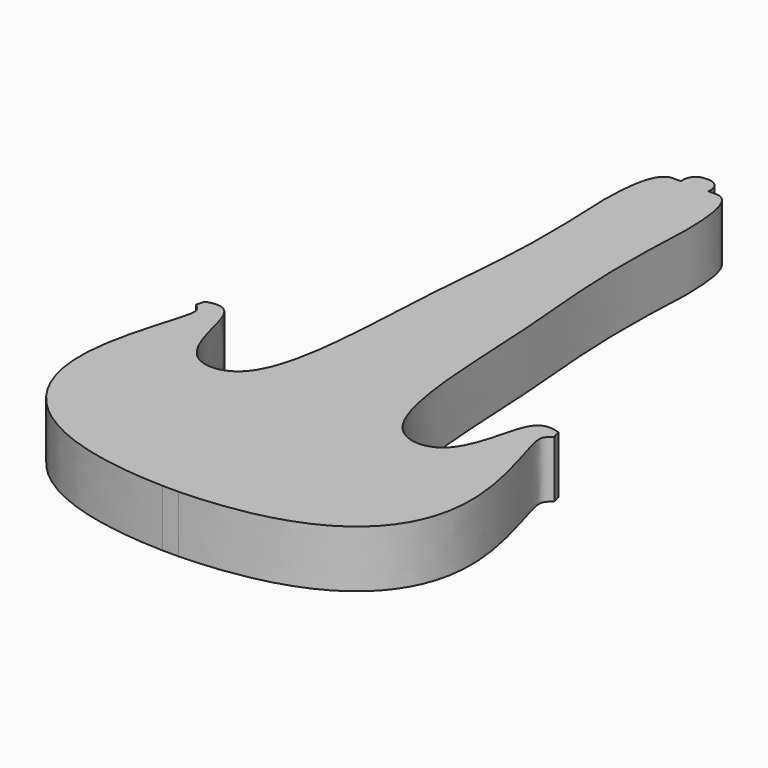
from build123d import *

# Parameters (mm, degrees)
F1_DEPTH = 35


with BuildPart() as f1:
    # F0 (on Top) → F1 (new body)
    with BuildSketch(Plane.XY):
        with BuildLine():
            ThreePointArc((7.5, 284.7219171226), (5.3033008589, 290.0252179815), (0, 292.2219171226))
            Line((0, 292.2219171226), (-1, 292.2219171226))
            Line((-1, 292.2219171226), (-1, -119.7780828774))
            Line((-1, -119.7780828774), (4, -119.7780828774))
            add(Edge.make_bspline(
                [(109, 37.3938740408), (105.6307440999, 34.3802133174), (101.4956652983, 29.6953939154), (138.6392780904, -56.2531371267), (89.0329927206, -117.4921383262), (4, -119.7780828774)],
                knots=[0, 0, 0, 0, 0.1283809688, 0.4939795161, 1, 1, 1, 1], degree=3))
            Line((109, 37.3938740408), (107.7, 42.2219171226))
            add(Edge.make_bspline(
                [(107.7, 42.2219171226), (94.0741872784, 47.2437572685), (88.096845975, 25.2587362562), (78.9578668379, -11.3232592516), (32.1367799481, -9.1189201412), (30.266071103, 105.0777554642), (23.2064005421, 163.6521584407), (22.6122391044, 218.3984420105), (25.733064441, 250.9676623076), (21.075761049, 282.5527358512), (12.5, 282.7219171226)],
                knots=[0, 0, 0, 0, 0.0933023943, 0.2057022012, 0.303203191, 0.494207764, 0.6484723748, 0.7822167594, 0.8974829579, 1, 1, 1, 1], degree=3))
            Line((12.5, 282.7219171226), (7.5, 282.7219171226))
            Line((7.5, 282.7219171226), (7.5, 284.7219171226))
        make_face()
    extrude(amount=F1_DEPTH)

    # F2: F1 across face


with BuildPart() as f1_1:
    add(f1.part)
    add(f1.part.mirror(Plane(origin=(-1, 86.2219171226, 17.5), x_dir=(0, -1, 0), z_dir=(-1, 0, 0))))


solid = f1_1.part
